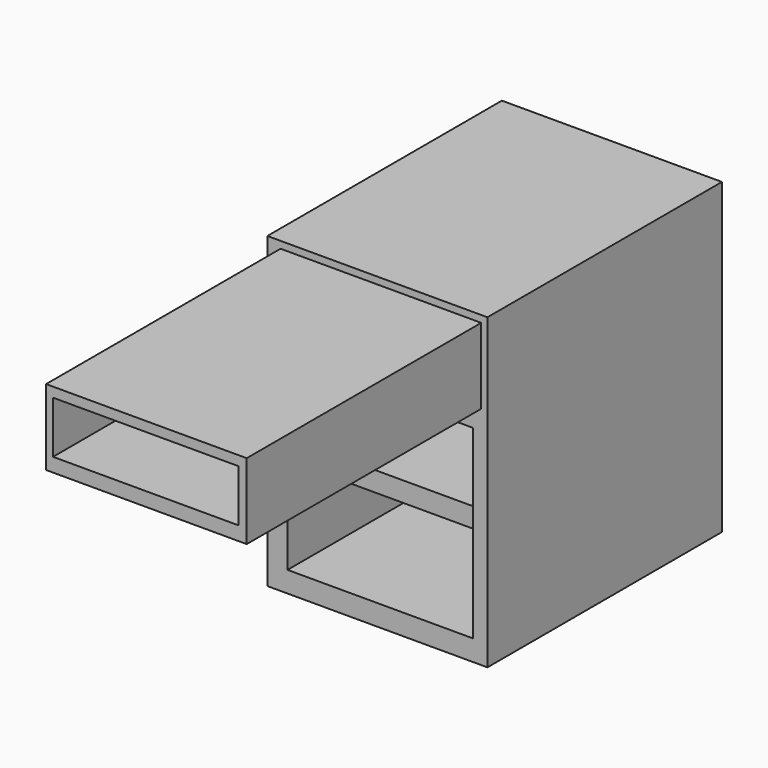
from build123d import *

# Parameters (mm, degrees)
F0_W     = 95.3502617776
F0_H     = 133.5505247116
F1_DEPTH = 127
F2_W     = 80.3107917309
F2_H     = 22.5592143834
F2_H_2   = 80.3107880056
F3_DEPTH = 76.2
F4_W     = 80.3107917309
F4_H     = 8.5725001991
F5_DEPTH = 73.66
F6_W     = 86.9281552732
F6_H     = 32.7860526741
F6_W_2   = 80.3107917309
F6_H_2   = 22.5592143834
F7_DEPTH = 127


with BuildPart() as f1:
    # F0 (on Front) → F1 (new body)
    with BuildSketch(Plane.XZ):
        with Locations((-3.3086854964, 0.1503974199)):
            Rectangle(F0_W, F0_H)
    extrude(amount=F1_DEPTH)

    # F2 (on face) → F3 (cut)
    with BuildSketch(Plane.XZ.offset(127)):
        with Locations((-2.1055266261, 48.4271068126)):
            Rectangle(F2_W, F2_H)
        with Locations((-2.1055266261, -17.4457896501)):
            Rectangle(F2_W, F2_H_2)
    extrude(amount=-F3_DEPTH, mode=Mode.SUBTRACT)

    # F4 (on face) → F5 (join)
    with BuildSketch(Plane.XZ.offset(50.8)):
        with Locations((-2.1055266261, -13.1595395505)):
            Rectangle(F4_W, F4_H)
    extrude(amount=F5_DEPTH)

    # F6 (on face) → F7 (join)
    with BuildSketch(Plane.XZ.offset(127)):
        with Locations((-1.8047373742, 47.5247371942)):
            Rectangle(F6_W, F6_H)
        with Locations((-2.1055266261, 48.4271068126)):
            Rectangle(F6_W_2, F6_H_2, mode=Mode.SUBTRACT)
    extrude(amount=F7_DEPTH)


solid = f1.part
